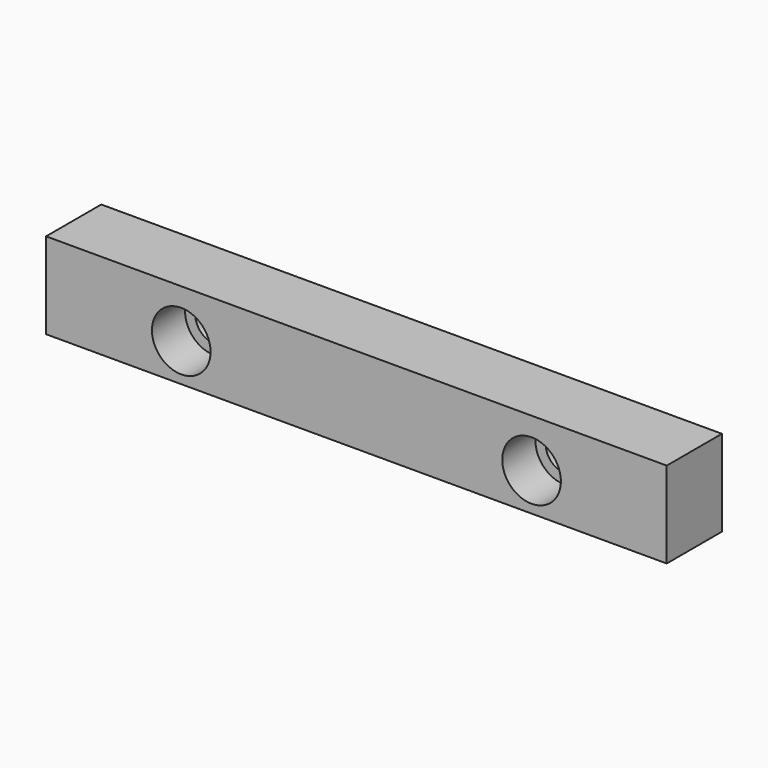
from build123d import *

# Parameters (mm, degrees)
F0_W     = 180
F0_H     = 25
F0_R     = 5.5
F1_DEPTH = 20
F2_R     = 8.5
F2_R_2   = 5.5
F3_DEPTH = 12


with BuildPart() as f1:
    # F0 (on Front) → F1 (new body)
    with BuildSketch(Plane.XZ):
        with Locations((90, 12.5)):
            Rectangle(F0_W, F0_H)
        with Locations((39.2, 11)):
            Circle(F0_R, mode=Mode.SUBTRACT)
        with Locations((140.8, 11)):
            Circle(F0_R, mode=Mode.SUBTRACT)
    extrude(amount=F1_DEPTH)

    # F2 (on face) → F3 (cut)
    with BuildSketch(Plane.XZ.offset(20)):
        with Locations((39.2, 11)):
            Circle(F2_R)
        with Locations((39.2, 11)):
            Circle(F2_R_2, mode=Mode.SUBTRACT)
        with Locations((140.8, 11)):
            Circle(F2_R)
        with Locations((140.8, 11)):
            Circle(F2_R_2, mode=Mode.SUBTRACT)
    extrude(amount=-F3_DEPTH, mode=Mode.SUBTRACT)


solid = f1.part
